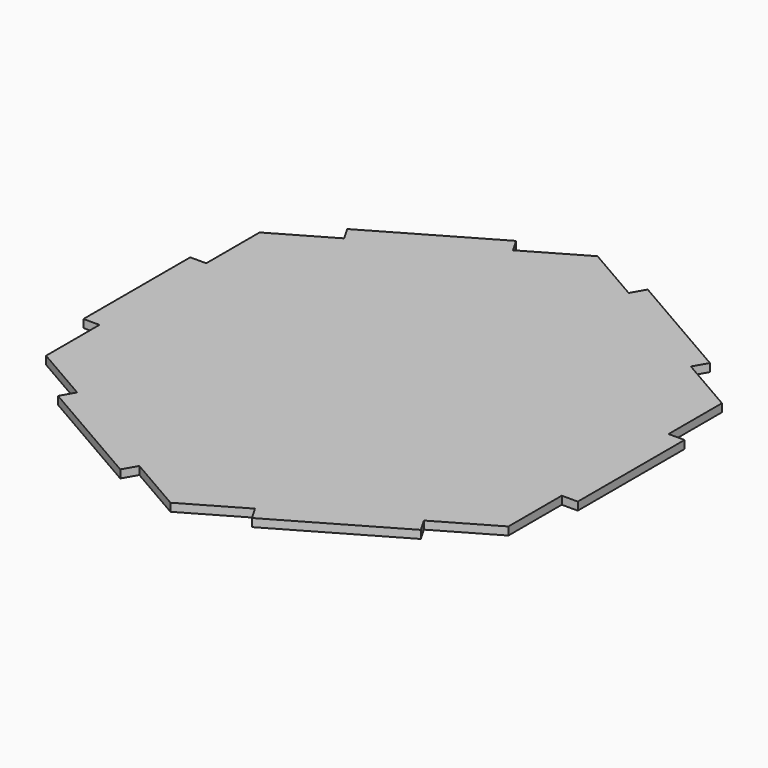
from build123d import *

# Parameters (mm, degrees)
F1_DEPTH = 3


with BuildPart() as f1:
    # F0 (on Top) → F1 (new body)
    with BuildSketch(Plane.XY):
        Polygon((-21.650635, -87.5), (0, -100), (21.650635, -87.5), (24.650635, -92.696152), (67.951905, -67.696152), (64.951905, -62.5), (86.60254, -50), (86.60254, -25), (92.60254, -25), (92.60254, 25), (86.60254, 25), (86.60254, 50), (64.951905, 62.5), (67.951905, 67.696152), (24.650635, 92.696152), (21.650635, 87.5), (0, 100), (-21.650635, 87.5), (-24.650635, 92.696152), (-67.951905, 67.696152), (-64.951905, 62.5), (-86.60254, 50), (-86.60254, 25), (-92.60254, 25), (-92.60254, -25), (-86.60254, -25), (-86.60254, -50), (-64.951905, -62.5), (-67.951905, -67.696152), (-24.650635, -92.696152), align=None)
    extrude(amount=F1_DEPTH)


solid = f1.part
